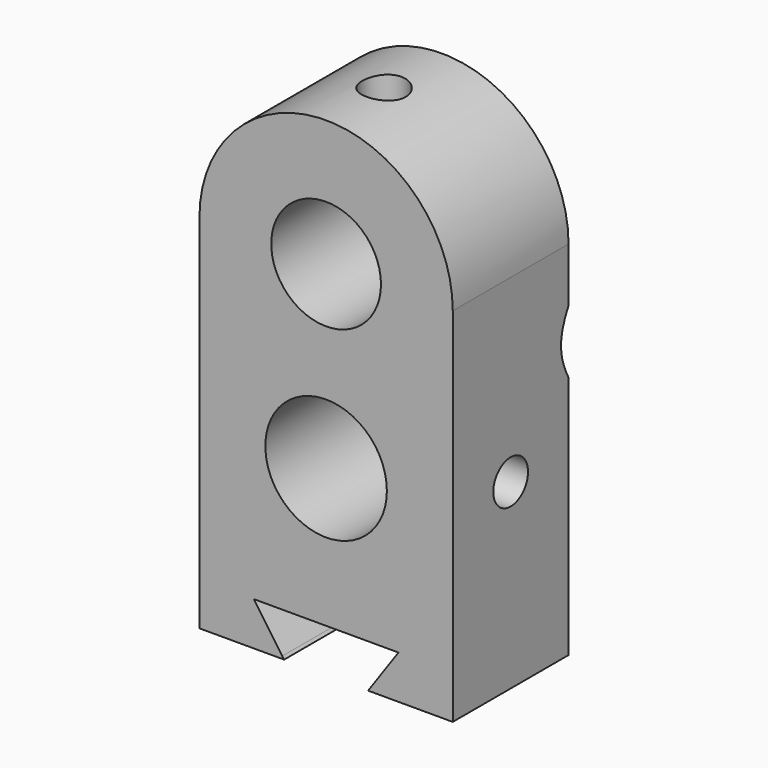
from build123d import *

# Parameters (mm, degrees)
F0_R            = 8.3956500105
F0_R_2          = 7.5822661832
F1_DEPTH        = 20
F4_DEPTH        = 25
F5_R            = 3
F6_DEPTH        = 10
F8_R            = 3
F9_DEPTH        = 40
F11_D           = 8.5
F11_DEPTH       = 15
F11_CSINK_D     = 16
F11_CSINK_ANGLE = 90
F11_TIP         = 2.5536576309


with BuildPart() as f1:
    # F0 (on Front) → F1 (new body)
    with BuildSketch(Plane.XZ):
        with BuildLine():
            Line((-17.5, 24.8610879062), (-17.5, -25.1389120938))
            Line((-17.5, -25.1389120938), (17.5, -25.1389120938))
            Line((17.5, -25.1389120938), (17.5, 24.8610879062))
            ThreePointArc((17.5, 24.8610879062), (0, 42.3610879062), (-17.5, 24.8610879062))
        make_face()
        Circle(F0_R, mode=Mode.SUBTRACT)
        with Locations((0, 24.8610879062)):
            Circle(F0_R_2, mode=Mode.SUBTRACT)
    extrude(amount=F1_DEPTH)

    # F3 (on face) → F4 (cut)
    with BuildSketch(Plane.XZ.offset(20)):
        Polygon((-10, -19.1389120938), (-6.0486232505, -24.7820629224), (8.8115125525, -19.1389120938), align=None)
        Polygon((-6.0486232505, -24.7820629224), (-5.7255781316, -25.2434191651), (5.7496010901, -25.2091108247), (8.3105433405, -21.5517062546), (8.9213285707, -19.1389120938), (8.8115125525, -19.1389120938), align=None)
        Polygon((8.9213285707, -19.1389120938), (8.3105433405, -21.5517062546), (10, -19.1389120938), align=None)
    extrude(amount=-F4_DEPTH, mode=Mode.SUBTRACT)

    # F5 (on face) → F6 (cut)
    with BuildSketch(Plane.YZ.offset(17.5)):
        with Locations((-10, 0)):
            Circle(F5_R)
    extrude(amount=-F6_DEPTH, mode=Mode.SUBTRACT)

    # F8 (on offset) → F9 (cut)
    with BuildSketch(Plane.XY.offset(67.5)):
        with Locations((0, -10)):
            Circle(F8_R)
    extrude(amount=-F9_DEPTH, mode=Mode.SUBTRACT)

    # F11
    with Locations(Plane(origin=(0, 0, 0), x_dir=(-1, 0, 0), z_dir=(0, 1, 0))):
        with Locations((10, 13), (-10.7969033529, 13)):
            CounterSinkHole(F11_D / 2, F11_CSINK_D / 2, depth=F11_DEPTH, counter_sink_angle=F11_CSINK_ANGLE)
            with Locations((0, 0, -(F11_DEPTH + F11_TIP / 2))):  # 118° drill point
                Cone(0, F11_D / 2, F11_TIP, mode=Mode.SUBTRACT)


solid = f1.part
